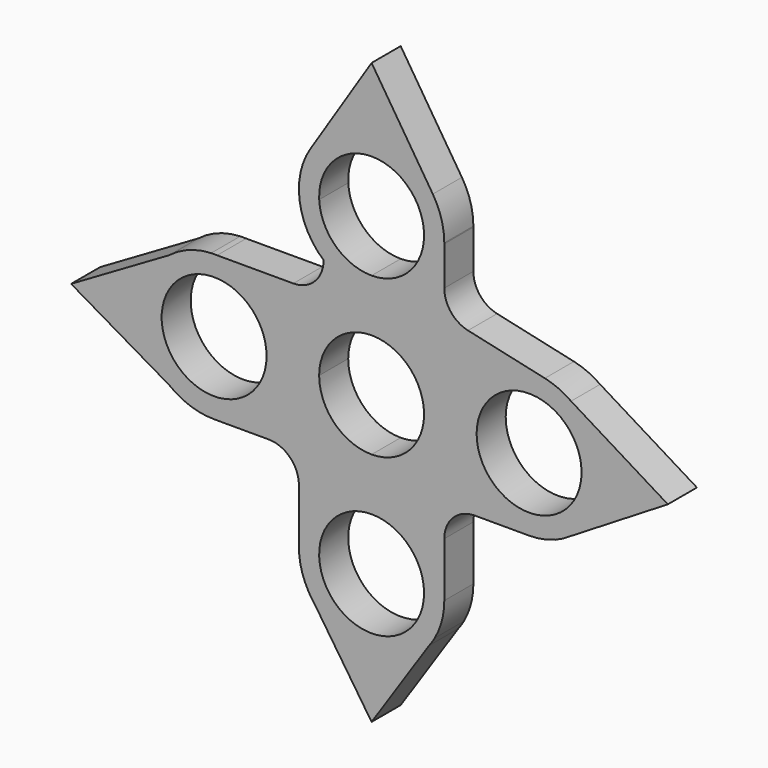
from build123d import *

# Parameters (mm, degrees)
F0_R     = 10.9982
F1_DEPTH = 7.62


with BuildPart() as f1:
    # F0 (on Front) → F1 (new body)
    with BuildSketch(Plane.XZ):
        with BuildLine():
            ThreePointArc((-10.9982, 0), (-7.7769018008, 7.7769018008), (0, 10.9982))
            Line((0, 10.9982), (0, 17.78))
            ThreePointArc((0, 17.78), (-5.3788561382, 18.7607746829), (-10.0653965385, 21.5768626451))
            ThreePointArc((-10.0653965385, 21.5768626451), (-11.9253757257, 17.0869306915), (-16.4153965312, 15.2271660045))
            Line((-16.4153965312, 15.2271660045), (-32.3946877004, 15.2271660045))
            ThreePointArc((-32.3946877004, 15.2271660045), (-22.0248338019, 10.5529105121), (-17.78, 0))
            Line((-17.78, 0), (-10.9982, 0))
        make_face()
        with BuildLine():
            Line((0, 17.78), (0, 10.9982))
            ThreePointArc((0, 10.9982), (7.7769018008, 7.7769018008), (10.9982, 0))
            Line((10.9982, 0), (17.78, 0))
            ThreePointArc((17.78, 0), (23.4843953598, 11.8882229179), (36.3272236413, 14.8768233097))
            Line((36.3272236413, 14.8768233097), (20.2106650558, 18.459648921))
            ThreePointArc((20.2106650558, 18.459648921), (16.6352486905, 20.6851567), (15.2386749063, 24.6583253))
            Line((15.2386749063, 24.6583253), (15.2386749063, 32.8190345816))
            ThreePointArc((15.2386749063, 32.8190345816), (10.7050195475, 22.1728733534), (0, 17.78))
        make_face()
        with BuildLine():
            ThreePointArc((0, -10.9982), (-7.7769018008, -7.7769018008), (-10.9982, 0))
            Line((-10.9982, 0), (-17.78, 0))
            ThreePointArc((-17.78, 0), (-22.2436926547, -10.7763073453), (-33.02, -15.24))
            Line((-33.02, -15.24), (-21.59, -15.24))
            ThreePointArc((-21.59, -15.24), (-17.0998719395, -17.0998719395), (-15.24, -21.59))
            Line((-15.24, -21.59), (-15.24, -33.02))
            ThreePointArc((-15.24, -33.02), (-10.7763073453, -22.2436926547), (0, -17.78))
            Line((0, -17.78), (0, -10.9982))
        make_face()
        with BuildLine():
            Line((17.78, 0), (10.9982, 0))
            ThreePointArc((10.9982, 0), (7.7769018008, -7.7769018008), (0, -10.9982))
            Line((0, -10.9982), (0, -17.78))
            ThreePointArc((0, -17.78), (10.7763073453, -22.2436926547), (15.24, -33.02))
            Line((15.24, -33.02), (15.24, -21.59))
            ThreePointArc((15.24, -21.59), (17.0998719395, -17.0998719395), (21.59, -15.24))
            Line((21.59, -15.24), (33.02, -15.24))
            ThreePointArc((33.02, -15.24), (22.2436926547, -10.7763073453), (17.78, 0))
        make_face()
        with BuildLine():
            ThreePointArc((-10.0653965385, 21.5768626451), (-5.3788561382, 18.7607746829), (0, 17.78))
            Line((0, 17.78), (0, 22.0218))
            ThreePointArc((0, 22.0218), (-7.5754508533, 25.0467354485), (-10.9838107601, 32.4575905169))
            Line((-10.9838107601, 32.4575905169), (-10.9838107601, 24.8666))
            ThreePointArc((-10.9838107601, 24.8666), (-10.2992675476, 23.2846396517), (-10.0653965385, 21.5768626451))
        make_face()
        with BuildLine():
            Line((0, 22.0218), (0, 17.78))
            ThreePointArc((0, 17.78), (10.7050195475, 22.1728733534), (15.2386749063, 32.8190345816))
            ThreePointArc((15.2386749063, 32.8190345816), (15.239668723, 32.9195151065), (15.24, 33.02))
            ThreePointArc((15.24, 33.02), (14.6261956768, 37.301588493), (12.8342257188, 41.2382875467))
            ThreePointArc((12.8342257188, 41.2382875467), (0, 48.26), (-12.8342257188, 41.2382875467))
            ThreePointArc((-12.8342257188, 41.2382875467), (-15.091092809, 30.894789933), (-10.0653965385, 21.5768626451))
            ThreePointArc((-10.0653965385, 21.5768626451), (-10.2992675476, 23.2846396517), (-10.9838107601, 24.8666))
            Line((-10.9838107601, 24.8666), (-10.9838107601, 32.4575905169))
            ThreePointArc((-10.9838107601, 32.4575905169), (-0.2812967636, 44.0146021015), (10.9982, 33.02))
            ThreePointArc((10.9982, 33.02), (7.7769018008, 25.2430981992), (0, 22.0218))
        make_face()
        with BuildLine():
            ThreePointArc((-33.02, -15.24), (-22.2436926547, -10.7763073453), (-17.78, 0))
            ThreePointArc((-17.78, 0), (-22.0248338019, 10.5529105121), (-32.3946877004, 15.2271660045))
            Line((-32.3946877004, 15.2271660045), (-33.6453122996, 15.2271660045))
            ThreePointArc((-33.6453122996, 15.2271660045), (-38.2946425734, 14.2981028714), (-42.4334579703, 11.985174552))
            ThreePointArc((-42.4334579703, 11.985174552), (-48.26, 0), (-42.4334579703, -11.985174552))
            ThreePointArc((-42.4334579703, -11.985174552), (-38.0001375397, -14.4033270492), (-33.02, -15.24))
        make_face()
        with Locations((-33.02, 0)):
            Circle(F0_R, mode=Mode.SUBTRACT)
        with BuildLine():
            ThreePointArc((36.3272236413, 14.8768233097), (23.4843953598, 11.8882229179), (17.78, 0))
            ThreePointArc((17.78, 0), (22.2436926547, -10.7763073453), (33.02, -15.24))
            ThreePointArc((33.02, -15.24), (37.6384409366, -14.5233468359), (41.8225222525, -12.4407878366))
            ThreePointArc((41.8225222525, -12.4407878366), (46.555287938, -7.0038261283), (48.26, 0))
            ThreePointArc((48.26, 0), (46.5542268134, 7.0058764309), (41.8187526818, 12.4434541525))
            ThreePointArc((41.8187526818, 12.4434541525), (39.1940575837, 13.9333633037), (36.3272236413, 14.8768233097))
        make_face()
        with BuildLine():
            ThreePointArc((44.0182, 0), (33.02, -10.9982), (22.0218, 0))
            ThreePointArc((22.0218, 0), (33.02, 10.9982), (44.0182, 0))
        make_face(mode=Mode.SUBTRACT)
        with BuildLine():
            ThreePointArc((15.24, -33.02), (10.7763073453, -22.2436926547), (0, -17.78))
            ThreePointArc((0, -17.78), (-10.7763073453, -22.2436926547), (-15.24, -33.02))
            ThreePointArc((-15.24, -33.02), (-14.730806545, -36.9265251226), (-13.2372521609, -40.5720033917))
            Line((-13.2372521609, -40.5720033917), (-12.0341089163, -42.370819354))
            ThreePointArc((-12.0341089163, -42.370819354), (0, -48.26), (12.0341089163, -42.370819354))
            Line((12.0341089163, -42.370819354), (13.2372521609, -40.5720033917))
            ThreePointArc((13.2372521609, -40.5720033917), (14.730806545, -36.9265251226), (15.24, -33.02))
        make_face()
        with BuildLine():
            ThreePointArc((10.9982, -33.02), (-7.7769018008, -40.7969018008), (0, -22.0218))
            ThreePointArc((0, -22.0218), (7.7769018008, -25.2430981992), (10.9982, -33.02))
        make_face(mode=Mode.SUBTRACT)
        with BuildLine():
            Line((-33.6453122996, 15.2271660045), (-32.3946877004, 15.2271660045))
            ThreePointArc((-32.3946877004, 15.2271660045), (-33.02, 15.24), (-33.6453122996, 15.2271660045))
        make_face()
        with BuildLine():
            Line((0, 61.2810700441), (-12.8342257188, 41.2382875467))
            ThreePointArc((-12.8342257188, 41.2382875467), (0, 48.26), (12.8342257188, 41.2382875467))
            Line((12.8342257188, 41.2382875467), (0, 61.2810700441))
        make_face()
        with BuildLine():
            Line((-63.0083821844, 0), (-42.4334579703, -11.985174552))
            ThreePointArc((-42.4334579703, -11.985174552), (-48.26, 0), (-42.4334579703, 11.985174552))
            Line((-42.4334579703, 11.985174552), (-63.0083821844, 0))
        make_face()
        with BuildLine():
            Line((62.1118612768, 0), (41.8187526818, 12.4434541525))
            ThreePointArc((41.8187526818, 12.4434541525), (46.5542268134, 7.0058764309), (48.26, 0))
            ThreePointArc((48.26, 0), (46.555287938, -7.0038261283), (41.8225222525, -12.4407878366))
            Line((41.8225222525, -12.4407878366), (62.1118612768, 0))
        make_face()
        with BuildLine():
            ThreePointArc((12.0341089163, -42.370819354), (12.6676500342, -41.4927942622), (13.2372521609, -40.5720033917))
            Line((13.2372521609, -40.5720033917), (12.0341089163, -42.370819354))
        make_face()
        with BuildLine():
            Line((-12.0341089163, -42.370819354), (-13.2372521609, -40.5720033917))
            ThreePointArc((-13.2372521609, -40.5720033917), (-12.6676500342, -41.4927942622), (-12.0341089163, -42.370819354))
        make_face()
        with BuildLine():
            Line((0, -60.3629805593), (12.0341089163, -42.370819354))
            ThreePointArc((12.0341089163, -42.370819354), (0, -48.26), (-12.0341089163, -42.370819354))
            Line((-12.0341089163, -42.370819354), (0, -60.3629805593))
        make_face()
    extrude(amount=F1_DEPTH)


solid = f1.part
